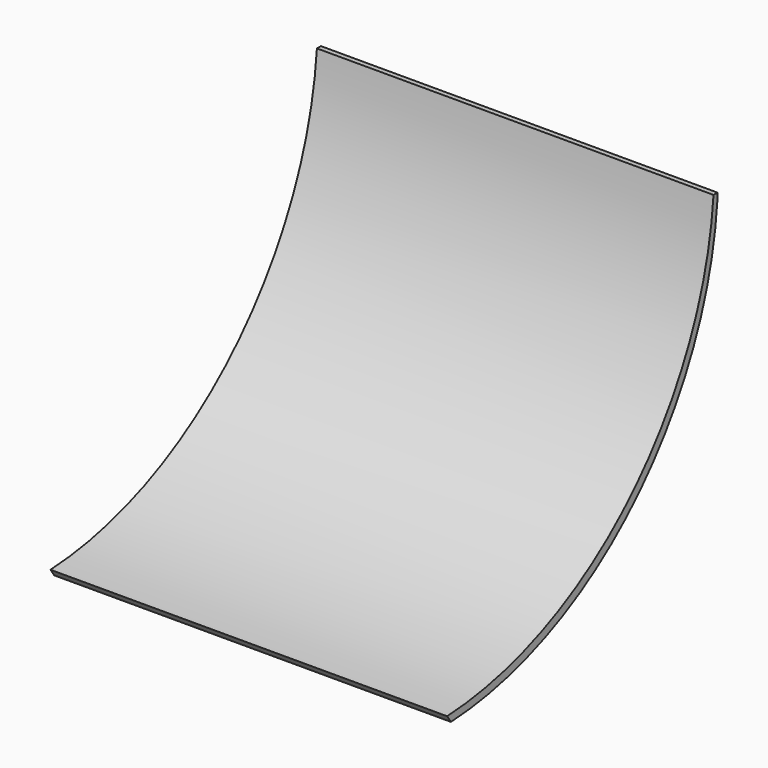
from build123d import *

# Parameters (mm, degrees)
F1_DEPTH = 3657.6


with BuildPart() as f1:
    # F0 (on Right) → F1 (new body)
    with BuildSketch(Plane.YZ):
        with BuildLine():
            ThreePointArc((0, 927.241276), (-971.843552, -1144.903488), (-3071.212648, -2056.447898))
            Line((-3071.212648, -2056.447898), (-3026.644405, -2120.758724))
            ThreePointArc((-3026.644405, -2120.758724), (-927.275308, -1209.214314), (44.568244, 862.93045))
            Line((44.568244, 862.93045), (46.316882, 927.241276))
            Line((46.316882, 927.241276), (0, 927.241276))
        make_face()
    extrude(amount=F1_DEPTH)


solid = f1.part
